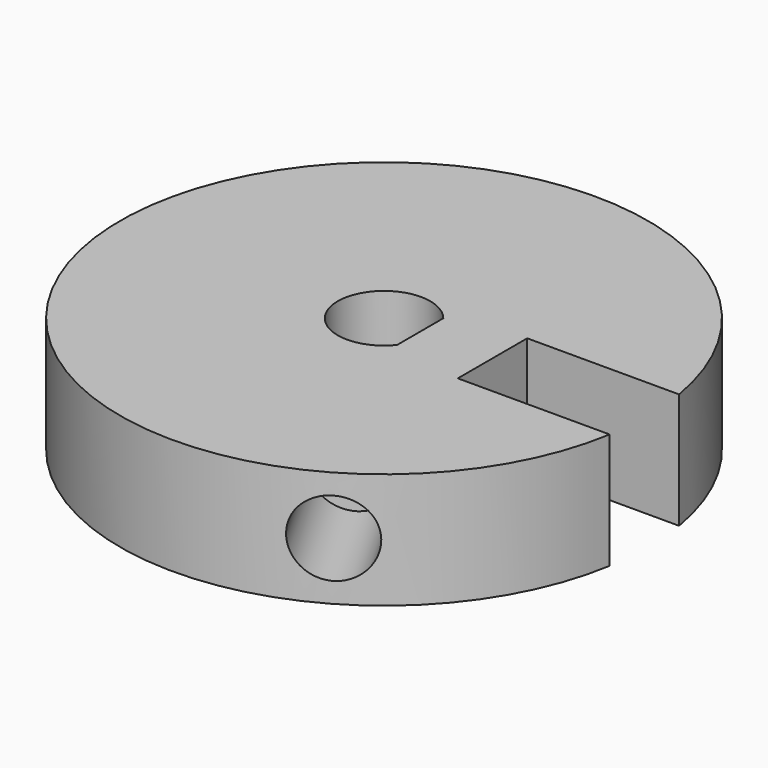
from build123d import *

# Parameters (mm, degrees)
F1_DEPTH = 8
F2_R     = 1.25
F3_DEPTH = 5
F5_R     = 2.6
F6_DEPTH = 25
F7_COUNT = 3
F7_ANGLE = 240


with BuildPart() as f1:
    # F0 (on Top) → F1 (new body)
    with BuildSketch(Plane.XY):
        with BuildLine():
            Line((7.5, 3), (18.001736, 3))
            ThreePointArc((18.001736, 3), (-18.25, 0), (18.001736, -3))
            Line((18.001736, -3), (7.5, -3))
            Line((7.5, -3), (7.5, 0))
            Line((7.5, 0), (7.5, 3))
        make_face()
        with BuildLine():
            ThreePointArc((2.5, -1.997498), (-3.2, 0), (2.5, 1.997498))
            Line((2.5, 1.997498), (2.5, -1.997498))
        make_face(mode=Mode.SUBTRACT)
    extrude(amount=F1_DEPTH)

    # F2 (on face) → F3 (cut, through all)
    with BuildSketch(Plane.YZ.offset(7.5)):
        with Locations((0, 4)):
            Circle(F2_R)
    extrude(amount=-F3_DEPTH, mode=Mode.SUBTRACT)


with BuildPart() as f6:
    # F5 (on offset) → F6 (new body)
    with BuildSketch(Plane.YZ.offset(-10)):
        with Locations((0, 4)):
            Circle(F5_R)
    extrude(amount=-F6_DEPTH)


with BuildPart() as f7_1:
    # F7: instance of F6
    add(f6.part.rotate(Axis((0, 0, 0), (0, 0, -1)), 1 * F7_ANGLE / (F7_COUNT - 1)))


with BuildPart() as f7_2:
    # F7: instance of F6
    add(f6.part.rotate(Axis((0, 0, 0), (0, 0, -1)), 2 * F7_ANGLE / (F7_COUNT - 1)))


with BuildPart() as f1_1:
    add(f1.part)

    # F8: cut F6, F7_1, F7_2
    add(f6.part, mode=Mode.SUBTRACT)
    add(f7_1.part, mode=Mode.SUBTRACT)
    add(f7_2.part, mode=Mode.SUBTRACT)


solid = f1_1.part
